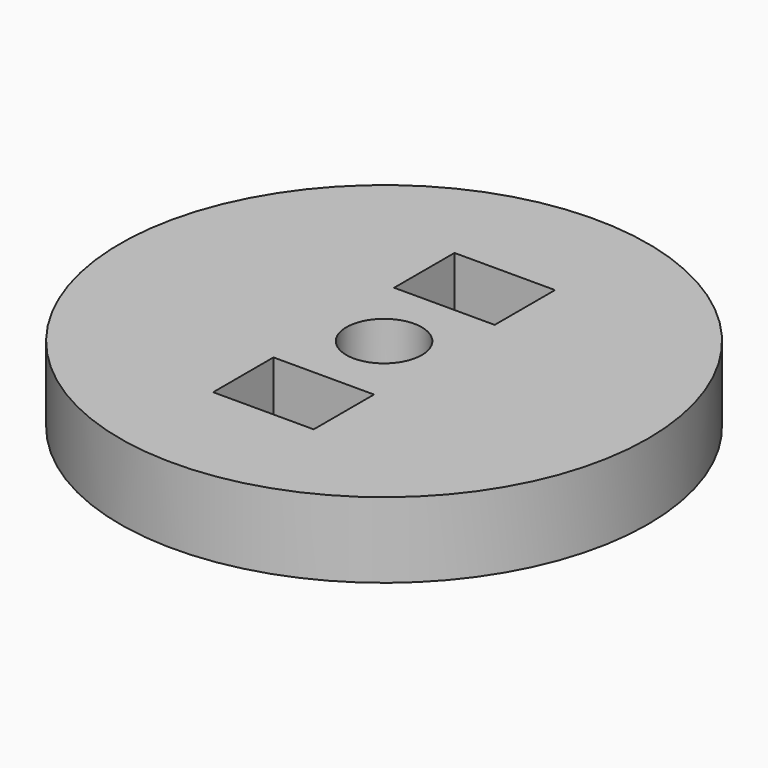
from build123d import *

# Parameters (mm, degrees)
F0_R     = 10.5
F0_W     = 4
F0_H     = 3
F0_R_2   = 1.5
F1_DEPTH = 3
F2_DEPTH = 3


with BuildPart() as f1:
    # F0 (on Top) → F1 (new body)
    with BuildSketch(Plane.XY):
        Circle(F0_R)
        with Locations((0, -4.5)):
            Rectangle(F0_W, F0_H, mode=Mode.SUBTRACT)
        Circle(F0_R_2, mode=Mode.SUBTRACT)
        with Locations((0, 4.5)):
            Rectangle(F0_W, F0_H, mode=Mode.SUBTRACT)
    extrude(amount=F1_DEPTH)

    # F0 (on Top) → F2 (join)
    with BuildSketch(Plane.XY):
        Circle(F0_R)
        with Locations((0, -4.5)):
            Rectangle(F0_W, F0_H, mode=Mode.SUBTRACT)
        Circle(F0_R_2, mode=Mode.SUBTRACT)
        with Locations((0, 4.5)):
            Rectangle(F0_W, F0_H, mode=Mode.SUBTRACT)
    extrude(amount=F2_DEPTH)


solid = f1.part
